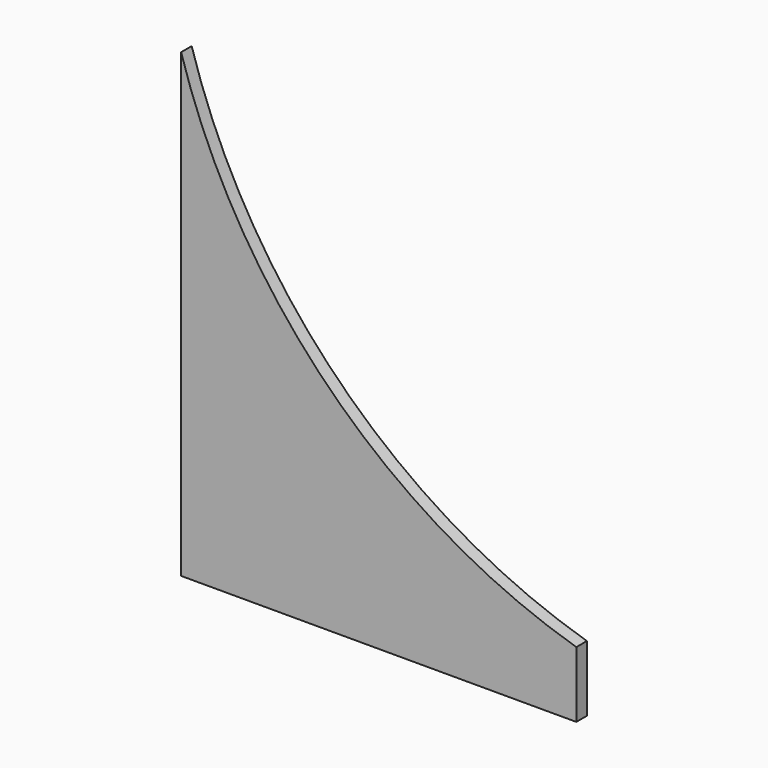
from build123d import *

# Parameters (mm, degrees)
F0_W     = 152.4
F0_H     = 152.4
F1_DEPTH = 5.08
F3_DEPTH = 5.08
F4_DEPTH = 25.4


with BuildPart() as f1:
    # F0 (on Front) → F1 (new body)
    with BuildSketch(Plane.XZ):
        with Locations((-57.4968958794, 22.0549479127)):
            Rectangle(F0_W, F0_H)
    extrude(amount=F1_DEPTH)

    # F2 (on face) → F3 (cut)
    with BuildSketch(Plane.XZ.offset(5.08)):
        with BuildLine():
            Line((18.7031041206, 98.2549479127), (-133.6968958794, 98.2549479127))
            ThreePointArc((-133.6968958794, 98.2549479127), (-76.6827848193, 2.8690589728), (18.7031041206, -54.1450520873))
            Line((18.7031041206, -54.1450520873), (18.7031041206, 98.2549479127))
        make_face()
    extrude(amount=-F3_DEPTH, mode=Mode.SUBTRACT)

    # F4 (add): a face of the model
    f4_faces = [f1.faces().sort_by_distance(p)[0] for p in [
        (-57.4968958794, -2.54, -54.1450520873),
    ]]
    extrude(f4_faces, amount=F4_DEPTH)


solid = f1.part
